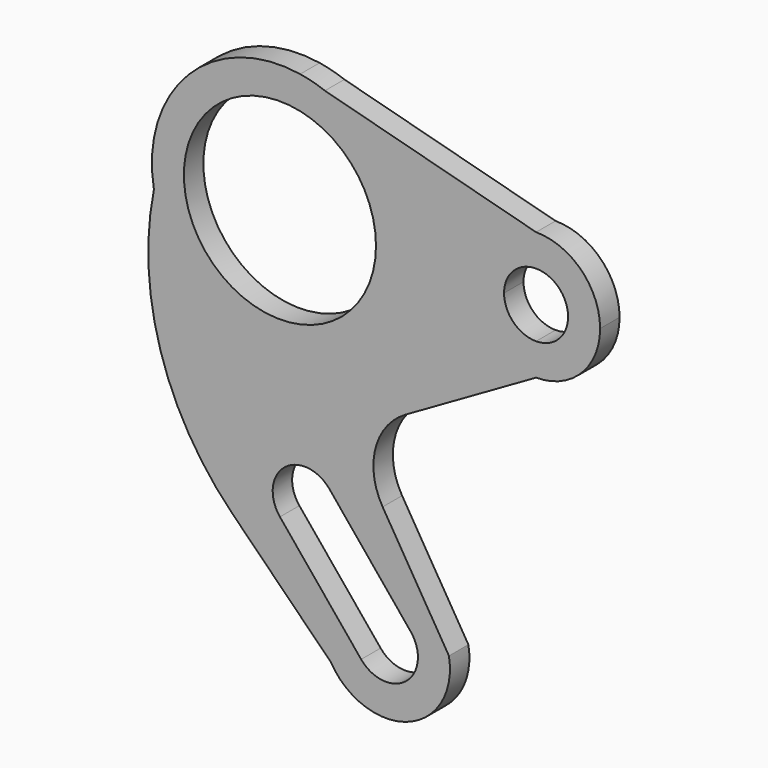
from build123d import *

# Parameters (mm, degrees)
F0_R     = 38.1
F1_DEPTH = 9.652


with BuildPart() as f1:
    # F0 (on Front) → F1 (new body)
    with BuildSketch(Plane.XZ):
        with Locations((0, 22.225)):
            Circle(F0_R)
        Polygon((19.247415, 11.1125), (0, 0), (-19.247415, 11.1125), (-19.247415, 33.3375), (0, 44.45), (19.247415, 33.3375), (19.247415, 22.225), align=None, mode=Mode.SUBTRACT)
        with BuildLine():
            ThreePointArc((-49.991999, 13.200588), (4.530256, -28.372597), (50.8, 22.225))
            ThreePointArc((50.8, 22.225), (41.753846, 51.160383), (17.837151, 69.790492))
            Line((17.837151, 69.790492), (8.023779, 72.387326))
            ThreePointArc((8.023779, 72.387326), (-36.278098, 57.785366), (-49.991999, 13.200588))
        make_face()
        with Locations((0, 22.225)):
            Circle(F0_R, mode=Mode.SUBTRACT)
        with BuildLine():
            ThreePointArc((17.837151, 69.790492), (41.753846, 51.160383), (50.8, 22.225))
            Line((50.8, 22.225), (88.9, 22.225))
            ThreePointArc((88.9, 22.225), (92.619744, 31.205256), (101.6, 34.925))
            Line((101.6, 34.925), (101.6, 47.625))
            Line((101.6, 47.625), (17.837151, 69.790492))
        make_face()
        with BuildLine():
            Line((88.9, 22.225), (50.8, 22.225))
            ThreePointArc((50.8, 22.225), (4.530256, -28.372597), (-49.991999, 13.200588))
            ThreePointArc((-49.991999, 13.200588), (-47.396537, -42.144648), (-18.988603, -89.713765))
            Line((-18.988603, -89.713765), (20.145702, -128.949929))
            ThreePointArc((20.145702, -128.949929), (50.863878, -139.882627), (67.034401, -111.569301))
            Line((67.034401, -111.569301), (40.737255, -68.105521))
            ThreePointArc((40.737255, -68.105521), (37.874897, -48.61006), (49.813694, -32.934243))
            Line((49.813694, -32.934243), (101.6, -3.175))
            Line((101.6, -3.175), (101.6, 9.525))
            ThreePointArc((101.6, 9.525), (92.619744, 13.244744), (88.9, 22.225))
        make_face()
        with BuildLine():
            Line((19.638991, -68.73418), (51.855138, -108.012162))
            ThreePointArc((51.855138, -108.012162), (50.089679, -125.885694), (32.216147, -124.120236))
            Line((32.216147, -124.120236), (0, -84.842254))
            ThreePointArc((0, -84.842254), (1.765459, -66.968721), (19.638991, -68.73418))
        make_face(mode=Mode.SUBTRACT)
        with BuildLine():
            Line((8.023779, 72.387326), (17.837151, 69.790492))
            ThreePointArc((17.837151, 69.790492), (12.995492, 71.334645), (8.023779, 72.387326))
        make_face()
        with BuildLine():
            ThreePointArc((127, 22.225), (119.560512, 40.185512), (101.6, 47.625))
            Line((101.6, 47.625), (101.6, 34.925))
            ThreePointArc((101.6, 34.925), (110.580256, 31.205256), (114.3, 22.225))
            Line((114.3, 22.225), (127, 22.225))
        make_face()
        with BuildLine():
            ThreePointArc((114.3, 22.225), (110.580256, 13.244744), (101.6, 9.525))
            Line((101.6, 9.525), (101.6, -3.175))
            ThreePointArc((101.6, -3.175), (119.560512, 4.264488), (127, 22.225))
            Line((127, 22.225), (114.3, 22.225))
        make_face()
    extrude(amount=F1_DEPTH)


solid = f1.part
